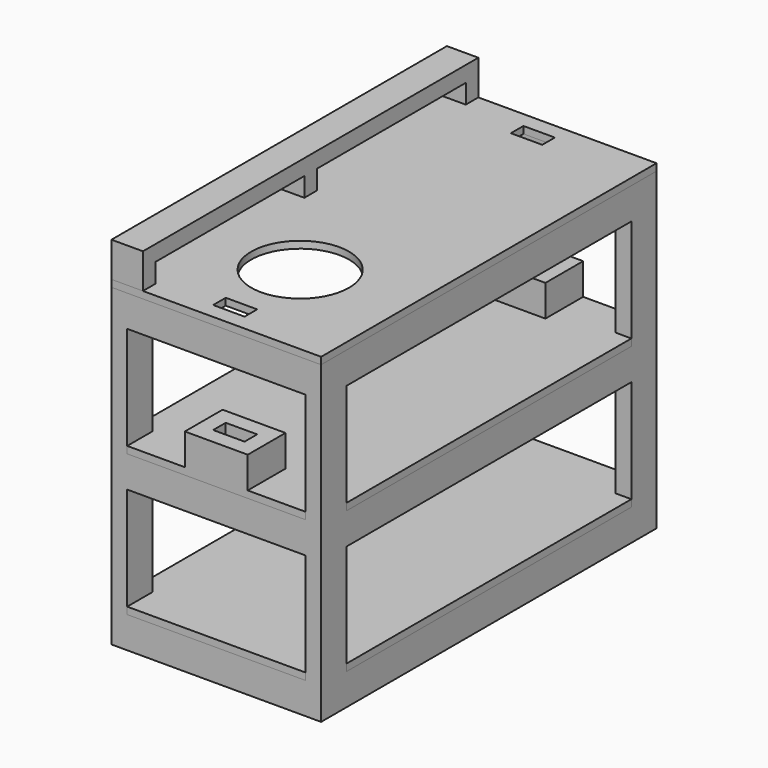
from build123d import *

# Parameters (mm, degrees)
F0_W      = 600
F0_H      = 1200
F1_DEPTH  = 900
F3_DEPTH  = 900.001
F4_W      = 1020
F4_H      = 315
F5_DEPTH  = 600.001
F6_W      = 510
F6_H      = 315
F7_DEPTH  = 1200.001
F8_W      = 600
F8_H      = 1200
F9_DEPTH  = 20
F11_DEPTH = 20
F13_DEPTH = 20
F14_R     = 140
F15_DEPTH = 20
F16_W     = 90
F16_H     = 45
F17_DEPTH = 20
F18_W     = 180
F18_H     = 135
F18_W_2   = 90
F18_H_2   = 45
F19_DEPTH = 90
F20_W     = 90
F20_H     = 45
F21_DEPTH = 75
F22_W     = 90
F22_H     = 1200
F23_DEPTH = 45


with BuildPart() as f1:
    # F0 (on Top) → F1 (new body)
    with BuildSketch(Plane.XY):
        with Locations((-300, 600)):
            Rectangle(F0_W, F0_H)
    extrude(amount=F1_DEPTH)

    # F2 (on face) → F3 (cut, through all)
    with BuildSketch(Plane.XY.offset(900)):
        Polygon((-555, 45), (-300, 45), (-45, 45), (-45, 600), (-45, 1155), (-300, 1155), (-555, 1155), (-555, 600), align=None)
    extrude(amount=-F3_DEPTH, mode=Mode.SUBTRACT)

    # F4 (on face) → F5 (cut, through all)
    with BuildSketch(Plane.YZ):
        with Locations((600, 652.5)):
            Rectangle(F4_W, F4_H)
        with Locations((600, 247.5)):
            Rectangle(F4_W, F4_H)
    extrude(amount=-F5_DEPTH, mode=Mode.SUBTRACT)

    # F6 (on face) → F7 (cut, through all)
    with BuildSketch(Plane(origin=(0, 1200, 0), x_dir=(-1, 0, 0), z_dir=(0, 1, 0))):
        with Locations((300, 652.5)):
            Rectangle(F6_W, F6_H)
        with Locations((300, 247.5)):
            Rectangle(F6_W, F6_H)
    extrude(amount=-F7_DEPTH, mode=Mode.SUBTRACT)

    # F20 (on face) → F21 (join)
    with BuildSketch(Plane.XY.offset(900)):
        with Locations((-555, 22.5)):
            Rectangle(F20_W, F20_H)
        with Locations((-555, 1177.5)):
            Rectangle(F20_W, F20_H)
        with Locations((-555, 600)):
            Rectangle(F20_W, F20_H)
    extrude(amount=F21_DEPTH)

    # F22 (on face) → F23 (join)
    with BuildSketch(Plane.XY.offset(975)):
        with Locations((-555, 600)):
            Rectangle(F22_W, F22_H)
    extrude(amount=F23_DEPTH)


with BuildPart() as f9:
    # F8 (on face) → F9 (new body)
    with BuildSketch(Plane.XY.offset(900)):
        with Locations((-300, 600)):
            Rectangle(F8_W, F8_H)
    extrude(amount=F9_DEPTH)

    # F14 (on face) → F15 (cut, through all)
    with BuildSketch(Plane.XY.offset(920)):
        with Locations((-300, 300)):
            Circle(F14_R)
    extrude(amount=-F15_DEPTH, mode=Mode.SUBTRACT)

    # F16 (on face) → F17 (cut, through all)
    with BuildSketch(Plane.XY.offset(920)):
        with Locations((-300, 67.5)):
            Rectangle(F16_W, F16_H)
        with Locations((-300, 1132.5)):
            Rectangle(F16_W, F16_H)
    extrude(amount=-F17_DEPTH, mode=Mode.SUBTRACT)


with BuildPart() as f11:
    # F10 (on face) → F11 (new body)
    with BuildSketch(Plane.XY.offset(495)):
        Polygon((-45, 90), (0, 90), (0, 1110), (-45, 1110), (-45, 1200), (-555, 1200), (-555, 1110), (-600, 1110), (-600, 90), (-555, 90), (-555, 0), (-45, 0), align=None)
    extrude(amount=F11_DEPTH)

    # F18 (on face) → F19 (join)
    with BuildSketch(Plane.XY.offset(515)):
        with Locations((-300, 67.5)):
            Rectangle(F18_W, F18_H)
        with Locations((-300, 67.5)):
            Rectangle(F18_W_2, F18_H_2, mode=Mode.SUBTRACT)
        with Locations((-300, 1132.5)):
            Rectangle(F18_W, F18_H)
        with Locations((-300, 1132.5)):
            Rectangle(F18_W_2, F18_H_2, mode=Mode.SUBTRACT)
    extrude(amount=F19_DEPTH)


with BuildPart() as f13:
    # F12 (on face) → F13 (new body)
    with BuildSketch(Plane.XY.offset(90)):
        Polygon((-45, 90), (0, 90), (0, 1110), (-45, 1110), (-45, 1200), (-555, 1200), (-555, 1110), (-600, 1110), (-600, 90), (-555, 90), (-555, 0), (-45, 0), align=None)
    extrude(amount=F13_DEPTH)


solid = Compound([f1.part, f9.part, f11.part, f13.part])
